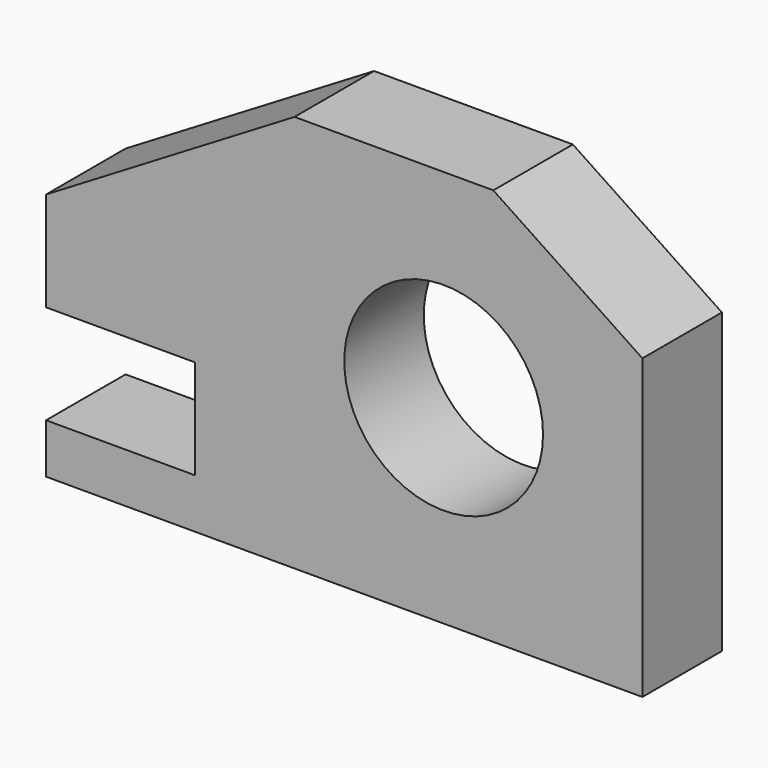
from build123d import *

# Parameters (mm, degrees)
F0_R     = 12.7
F1_DEPTH = 12.7


with BuildPart() as f1:
    # F0 (on Front) → F1 (new body)
    with BuildSketch(Plane.XZ):
        Polygon((25.4, 12.7), (6.35, 25.4), (-19.05, 25.4), (-50.8, 6.35), (-50.8, -6.35), (-31.75, -6.35), (-31.75, -19.05), (-50.8, -19.05), (-50.8, -25.4), (25.4, -25.4), align=None)
        Circle(F0_R, mode=Mode.SUBTRACT)
    extrude(amount=F1_DEPTH)


solid = f1.part
